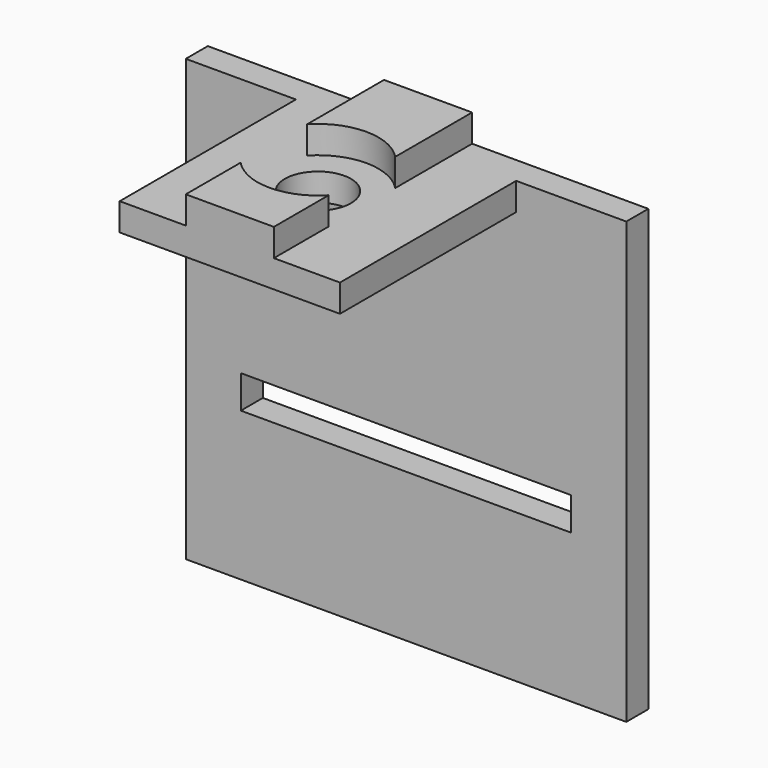
from build123d import *

# Parameters (mm, degrees)
F0_W     = 30
F0_H     = 3
F1_DEPTH = 2.5
F2_DEPTH = 22.5
F0_W_2   = 8
F0_H_2   = 2.5
F3_DEPTH = 22.5
F4_R     = 3
F5_DEPTH = 5.001
F6_START = -2.5
F4_R_2   = 5.5
F6_DEPTH = 2.5


with BuildPart() as f1:
    # F0 (on Front) → F1 (new body)
    with BuildSketch(Plane.XZ):
        Polygon((-20, -20), (20, -20), (20, 17.5), (20, 20), (10, 20), (10, 17.5), (0, 17.5), (-10, 17.5), (-10, 20), (-20, 20), (-20, 17.5), align=None)
        with Locations((0, -5)):
            Rectangle(F0_W, F0_H, mode=Mode.SUBTRACT)
    extrude(amount=F1_DEPTH)

    # F0 (on Front) → F2 (join)
    with BuildSketch(Plane.XZ):
        Polygon((10, 17.5), (10, 20), (4, 20), (-4, 20), (-10, 20), (-10, 17.5), (0, 17.5), align=None)
    extrude(amount=F2_DEPTH)

    # F0 (on Front) → F3 (join)
    with BuildSketch(Plane.XZ):
        with Locations((0, 21.25)):
            Rectangle(F0_W_2, F0_H_2)
    extrude(amount=F3_DEPTH)

    # F4 (on face) → F5 (cut, through all)
    with BuildSketch(Plane(origin=(0, 0, 17.5), x_dir=(1, 0, 0), z_dir=(0, 0, -1))):
        with Locations((0, 12.5)):
            Circle(F4_R)
    extrude(amount=-F5_DEPTH, mode=Mode.SUBTRACT)

    # F4 (on face) → F6 (cut)
    with BuildSketch(Plane(origin=(0, 0, 17.5), x_dir=(1, 0, 0), z_dir=(0, 0, -1)).offset(F6_START)):
        with Locations((0, 12.5)):
            Circle(F4_R_2)
        with Locations((0, 12.5)):
            Circle(F4_R, mode=Mode.SUBTRACT)
    extrude(amount=-F6_DEPTH, mode=Mode.SUBTRACT)


solid = f1.part
